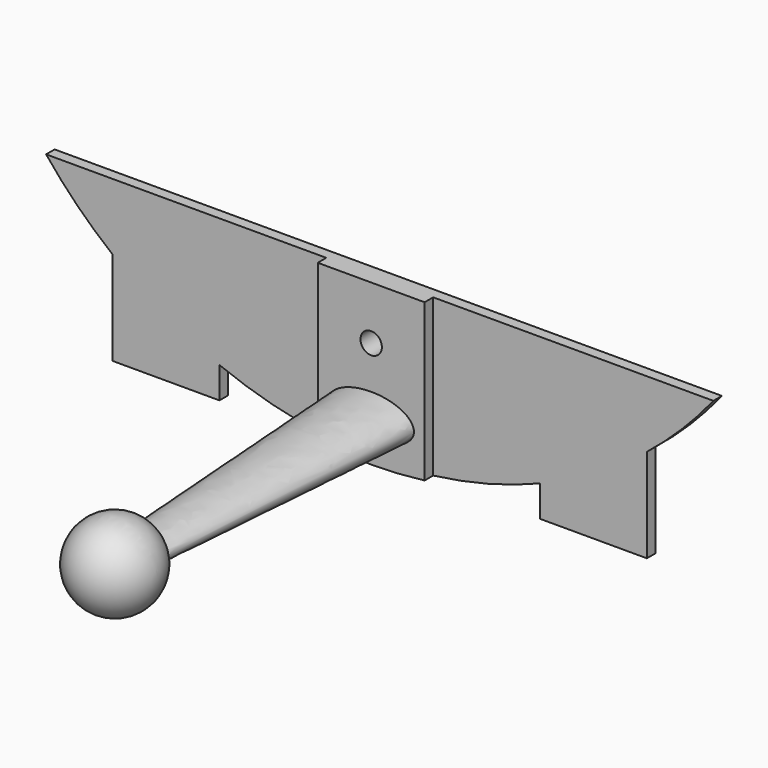
from build123d import *

# Parameters (mm, degrees)
F1_DEPTH  = 1
F3_DEPTH  = 1
F10_R     = 1
F11_DEPTH = 25


with BuildPart() as f1:
    # F0 (on Front) → F1 (new body)
    with BuildSketch(Plane.XZ):
        with BuildLine():
            Line((0, -25), (-31.224989992, -25))
            ThreePointArc((-31.224989992, -25), (-28.2842712475, -28.2842712475), (-25, -31.224989992))
            Line((-25, -31.224989992), (-25, -40))
            Line((-25, -40), (-15, -40))
            Line((-15, -40), (-15, -37.0809924355))
            ThreePointArc((-15, -37.0809924355), (0, -40), (15, -37.0809924355))
            Line((15, -37.0809924355), (15, -40))
            Line((15, -40), (25, -40))
            Line((25, -40), (25, -31.224989992))
            ThreePointArc((25, -31.224989992), (28.2842712475, -28.2842712475), (31.224989992, -25))
            Line((31.224989992, -25), (0, -25))
        make_face()
    extrude(amount=F1_DEPTH)

    # F2 (on face) → F3 (join)
    with BuildSketch(Plane.XZ.offset(1)):
        with BuildLine():
            Line((5, -25), (0, -25))
            Line((0, -25), (-5, -25))
            Line((-5, -25), (-5, -39.686269666))
            ThreePointArc((-5, -39.686269666), (0, -40), (5, -39.686269666))
            Line((5, -39.686269666), (5, -25))
        make_face()
    extrude(amount=F3_DEPTH)

    # F4 (on face) → F7 section 0
    with BuildSketch(Plane.XZ.offset(2)):
        with BuildLine():
            add(Edge.make_bspline(
                [(4, -36), (4, -32.5358983849), (-2, -34.2679491924), (-8, -36), (-2, -37.7320508076), (4, -39.4641016151), (4, -36)],
                knots=[0, 0, 0, 2.0943951024, 2.0943951024, 4.1887902048, 4.1887902048, 6.2831853072, 6.2831853072, 6.2831853072], degree=2, weights=[1, 0.5, 1, 0.5, 1, 0.5, 1]))
        make_face()
    # F6 (on offset) → F7 section 1
    with BuildSketch(Plane.XZ.offset(32)):
        with BuildLine():
            add(Edge.make_bspline(
                [(2, -36), (2, -34.2679491924), (-1, -35.1339745962), (-4, -36), (-1, -36.8660254038), (2, -37.7320508076), (2, -36)],
                knots=[0, 0, 0, 2.0943951024, 2.0943951024, 4.1887902048, 4.1887902048, 6.2831853072, 6.2831853072, 6.2831853072], degree=2, weights=[1, 0.5, 1, 0.5, 1, 0.5, 1]))
        make_face()
    loft()

    # F8 (on face) → F9 (revolve)
    with BuildSketch(Plane.XZ.offset(32)):
        with BuildLine():
            Line((-4, -36), (4, -36))
            ThreePointArc((4, -36), (0, -32), (-4, -36))
        make_face()
    revolve(axis=Axis((0, -32, -36), (1, 0, 0)))

    # F10 (on face) → F11 (cut)
    with BuildSketch(Plane.XZ.offset(2)):
        with Locations((0, -30)):
            Circle(F10_R)
    extrude(amount=-F11_DEPTH, mode=Mode.SUBTRACT)


solid = f1.part
